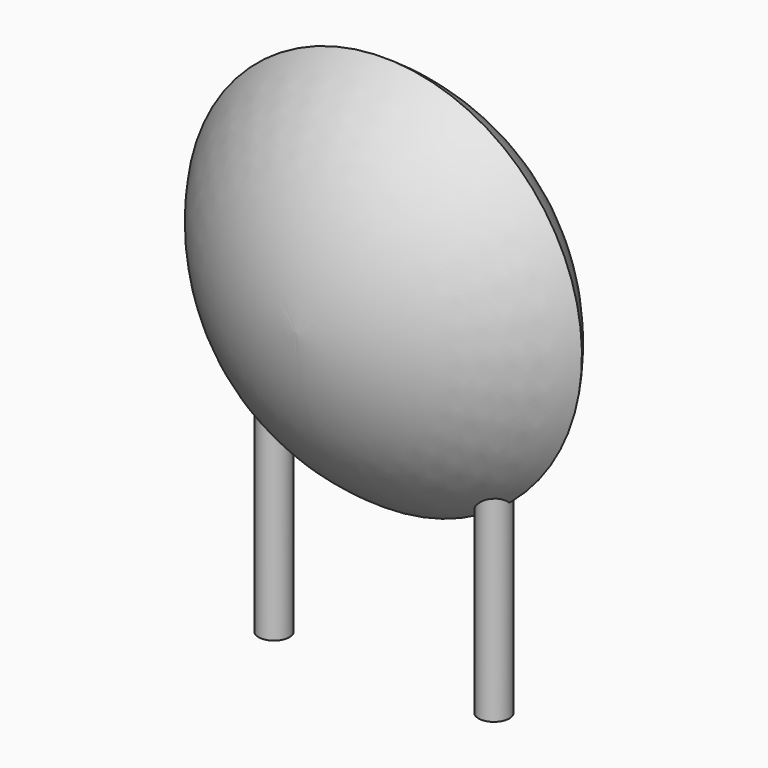
from build123d import *

# Parameters (mm, degrees)
SKETCH001_R       = 0.35
PAD001_DEPTH      = 1.8
PAD001_DEPTH_BACK = 3.2
SKETCH002_R       = 0.35
SKETCH003_R       = 0.35
SKETCH004_R       = 0.35
SKETCH005_R       = 0.35


with BuildPart() as pad001:
    # Sketch001 → Pad001 (new body, two sides)
    with BuildSketch(Plane.XY) as pad001_sk:
        Circle(SKETCH001_R)
        with Locations((5, 0)):
            Circle(SKETCH001_R)
    extrude(amount=PAD001_DEPTH)
    extrude(pad001_sk.sketch, amount=-PAD001_DEPTH_BACK)


with BuildPart() as revolution:
    # Sketch → Revolution (revolve)
    with BuildSketch(Plane.YZ.offset(2.5)):
        with BuildLine():
            Line((-2.5, 4.6), (2.5, 4.6))
            ThreePointArc((0, 0.1), (1.794778, 2.047346), (2.5, 4.6))
            ThreePointArc((-2.5, 4.6), (-1.794778, 2.047346), (0, 0.1))
        make_face()
    revolve(axis=Axis((2.5, -3.32079, 4.6), (0, 1, 0)))


with BuildPart() as loft_body:
    # Sketch002 → Loft section 0
    with BuildSketch(Plane.XY.offset(4.5)):
        with Locations((-1.1, 0)):
            Circle(SKETCH002_R)
    # Sketch003 → Loft section 1
    with BuildSketch(Plane.XY.offset(1.8)):
        Circle(SKETCH003_R)
    loft()


with BuildPart() as loft001:
    # Sketch004 → Loft001 section 0
    with BuildSketch(Plane.XY.offset(1.8)):
        with Locations((5, 0)):
            Circle(SKETCH004_R)
    # Sketch005 → Loft001 section 1
    with BuildSketch(Plane.XY.offset(4.5)):
        with Locations((6.1, 0)):
            Circle(SKETCH005_R)
    loft()


solid = Compound([pad001.part, revolution.part, loft_body.part, loft001.part])
